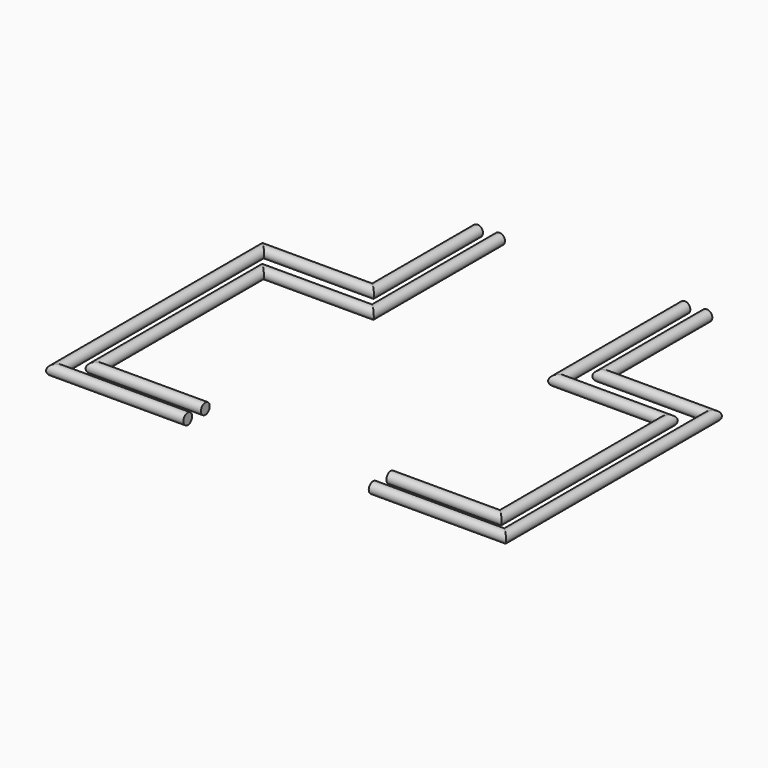
from build123d import *

# Parameters (mm, degrees)
F1_R = 2.5


with BuildPart() as f2:
    # F2: sweep along a path in F0
    with BuildLine(Plane.XY) as f2_path:
        Line((-29.9563152033, 0), (-29.9563152033, -59.5360959382))
        Line((-29.9563152033, -59.5360959382), (-79.9563152033, -59.5360959382))
        Line((-79.9563152033, -59.5360959382), (-79.9563152033, -177.3678190376))
        Line((-79.9563152033, -177.3678190376), (-19.9563152033, -177.3678190376))
    # F1 (on Front) → F2 (sweep)
    with BuildSketch(Plane.XZ):
        with Locations((-29.9563152033, 0)):
            Circle(F1_R)
    sweep(path=f2_path.line, transition=Transition.RIGHT)


with BuildPart() as f3:
    # F3: sweep along a path in F0
    with BuildLine(Plane.XY) as f3_path:
        Line((-19.9563152033, 0), (-19.9563152033, -72.1608251333))
        Line((-19.9563152033, -72.1608251333), (-69.9563152033, -72.1608251333))
        Line((-69.9563152033, -72.1608251333), (-69.9563152033, -167.3678190376))
        Line((-69.9563152033, -167.3678190376), (-19.9563152033, -167.3678190376))
    # F1 (on Front) → F3 (sweep)
    with BuildSketch(Plane.XZ):
        with Locations((-19.9563152033, 0)):
            Circle(F1_R)
    sweep(path=f3_path.line, transition=Transition.RIGHT)


with BuildPart() as f4:
    # F4: sweep along a path in F0
    with BuildLine(Plane.XY) as f4_path:
        Line((64.418164144, 0), (64.418164144, -72.1608251333))
        Line((64.418164144, -72.1608251333), (114.418164144, -72.1608251333))
        Line((114.418164144, -72.1608251333), (114.418164144, -167.3678190376))
        Line((114.418164144, -167.3678190376), (64.418164144, -167.3678190376))
    # F1 (on Front) → F4 (sweep)
    with BuildSketch(Plane.XZ):
        with Locations((64.418164144, 0)):
            Circle(F1_R)
    sweep(path=f4_path.line, transition=Transition.RIGHT)


with BuildPart() as f5:
    # F5: sweep along a path in F0
    with BuildLine(Plane.XY) as f5_path:
        Line((74.418164144, 0), (74.418164144, -59.5360959382))
        Line((74.418164144, -59.5360959382), (124.418164144, -59.5360959382))
        Line((124.418164144, -59.5360959382), (124.418164144, -177.3678190376))
        Line((124.418164144, -177.3678190376), (64.418164144, -177.3678190376))
    # F1 (on Front) → F5 (sweep)
    with BuildSketch(Plane.XZ):
        with Locations((74.418164144, 0)):
            Circle(F1_R)
    sweep(path=f5_path.line, transition=Transition.RIGHT)


solid = Compound([f2.part, f3.part, f4.part, f5.part])
